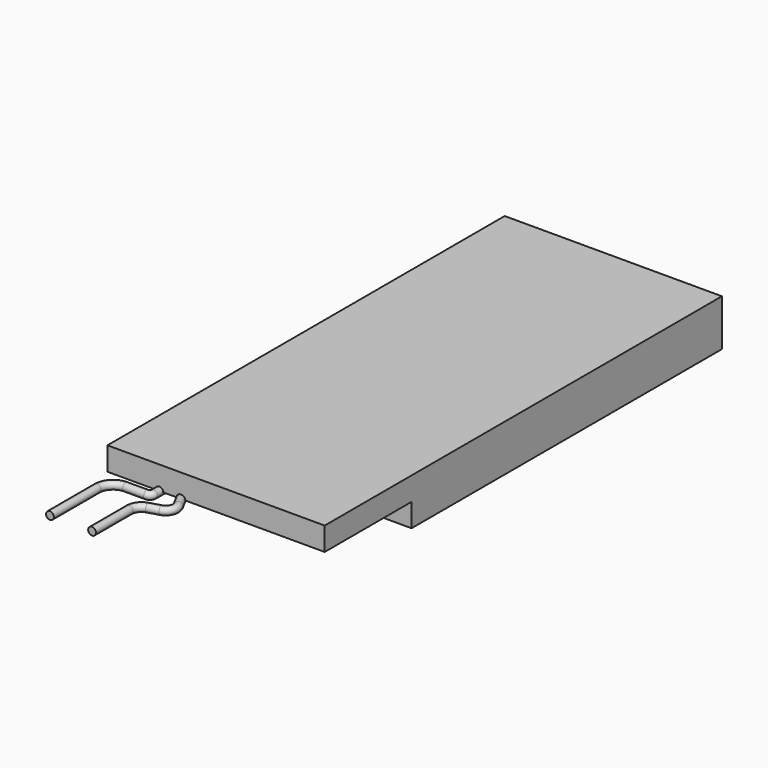
from build123d import *

# Parameters (mm, degrees)
SKETCH013_W             = 14
SKETCH013_H             = 25
PAD011_DEPTH            = 3
SKETCH014_W             = 14
SKETCH014_H             = 7
PAD012_DEPTH            = 1.5
SKETCH015_W             = 1.8
SKETCH015_H             = 4
PAD013_DEPTH            = 1
SKETCH017_R             = 0.25
SKETCH019_R             = 0.25
BODY004_PLACEMENT_ANGLE = 180


with BuildPart() as part:
    # Sketch013 → Pad011 (new body)
    with BuildSketch(Plane.XY):
        Rectangle(SKETCH013_W, SKETCH013_H)
    extrude(amount=PAD011_DEPTH)

    # Sketch014 (on Face5 of Pad011) → Pad012 (join)
    with BuildSketch(Plane(origin=(0, 0, 0), x_dir=(1, 0, 0), z_dir=(0, 0, -1))):
        with Locations((0, 16)):
            Rectangle(SKETCH014_W, SKETCH014_H)
    extrude(amount=-PAD012_DEPTH)

    # Sketch015 (on Face11 of Pad012) → Pad013 (join)
    with BuildSketch(Plane.XY.offset(1.5)):
        with Locations((-3.5, -16)):
            Rectangle(SKETCH015_W, SKETCH015_H)
        with Locations((3.5, -16)):
            Rectangle(SKETCH015_W, SKETCH015_H)
    extrude(amount=PAD013_DEPTH)

    # AdditivePipe: sweep along a path in Sketch016
    with BuildLine(Plane.XY.offset(1.5)) as additivepipe_path:
        Line((3.652698, -18), (3.652698, -19.955732))
        ThreePointArc((3.652698, -19.955732), (3.7255554811, -20.1316255189), (3.901449, -20.204483))
        Line((3.901449, -20.204483), (5.252995, -20.204483))
        ThreePointArc((5.252995, -20.204483), (5.9787998058, -20.5051211942), (6.279438, -21.230926))
        Line((6.279438, -21.230926), (6.279438, -25.029842))
    # Sketch017 (on DatumPlane) → AdditivePipe (sweep)
    with BuildSketch(Plane(origin=(6.279438, -25.029842, 1.5), x_dir=(1, 0, 0), z_dir=(0, -1, 0))):
        Circle(SKETCH017_R)
    sweep(path=additivepipe_path.line)

    # AdditivePipe001: sweep along a path in Sketch018
    with BuildLine(Plane.XY.offset(1.5)) as additivepipe001_path:
        Line((3.079145, -18), (1.9054359958, -20.158635665))
        ThreePointArc((1.9054359958, -20.158635665), (1.8760598704, -20.7128173949), (2.2882507497, -21.0844072569))
        Line((2.2882507497, -21.0844072569), (2.9810609114, -21.2900849643))
        ThreePointArc((2.9810609114, -21.2900849643), (3.3955781518, -21.5792681435), (3.554832, -22.0589447695))
        Line((3.554832, -22.0589447695), (3.554832, -25.04393))
    # Sketch019 (on DatumPlane) → AdditivePipe001 (sweep)
    with BuildSketch(Plane(origin=(3.554832, -25.04393, 1.5), x_dir=(1, 0, 0), z_dir=(0, -1, 0))):
        Circle(SKETCH019_R)
    sweep(path=additivepipe001_path.line)


with BuildPart() as part_1:
    # Body004 placement: moved
    add(part.part.moved(Location((30.8, 3.4, 19.7))).rotate(Axis((30.8, 3.4, 19.7), (0, 1, 0)), BODY004_PLACEMENT_ANGLE))


solid = part_1.part
